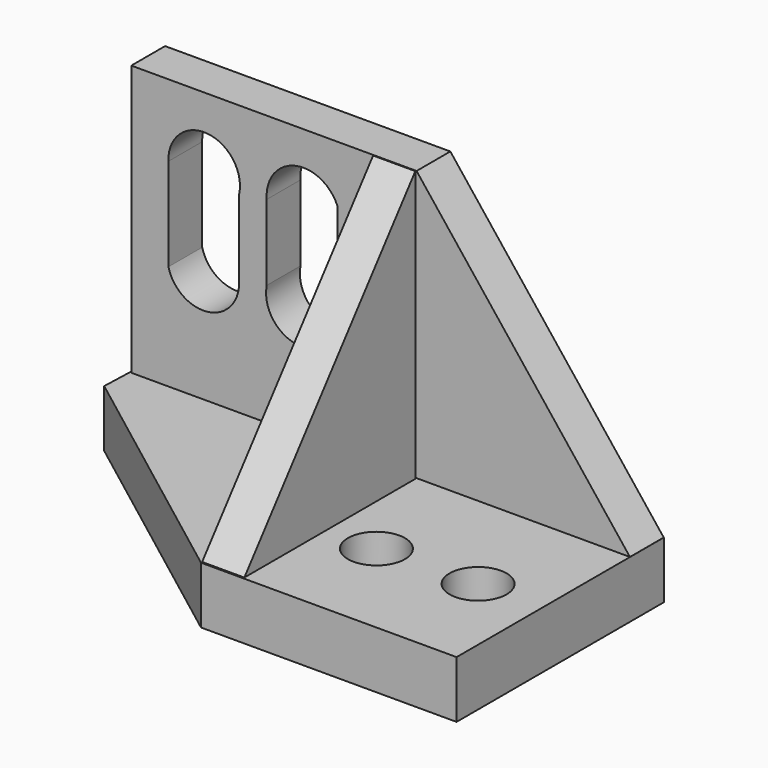
from build123d import *

# Parameters (mm, degrees)
F0_W     = 63.5
F0_H     = 60.198
F1_DEPTH = 9.398
F3_DEPTH = 12.7
F5_DEPTH = 9.398


with BuildPart() as f1:
    # F0 (on Front) → F1 (new body)
    with BuildSketch(Plane.XZ):
        with Locations((-31.75, 30.099)):
            Rectangle(F0_W, F0_H)
        with BuildLine():
            ThreePointArc((-55.2396252751, 44.1290847957), (-46.5901332262, 52.387728278), (-39.4916252751, 42.7632755798))
            Line((-39.4916252751, 42.7632755798), (-39.4916252751, 25.4))
            ThreePointArc((-39.4916252751, 25.4), (-46.5009541347, 17.4653953282), (-55.2396252751, 23.442373583))
            Line((-55.2396252751, 23.442373583), (-55.2396252751, 44.1290847957))
        make_face(mode=Mode.SUBTRACT)
        with BuildLine():
            ThreePointArc((-33.3522260189, 43.7816642225), (-27.1048819761, 52.4199260723), (-17.6042260189, 47.5839761388))
            Line((-17.6042260189, 47.5839761388), (-17.6042260189, 25.4))
            ThreePointArc((-17.6042260189, 25.4), (-26.3222239844, 17.4888395764), (-33.3522260189, 26.9317744576))
            Line((-33.3522260189, 26.9317744576), (-33.3522260189, 43.7816642225))
        make_face(mode=Mode.SUBTRACT)
        Polygon((47.498, 0), (0, 60.198), (0, 0), align=None)
    extrude(amount=F1_DEPTH)

    # F2 (on Top) → F3 (join)
    with BuildSketch(Plane.XY):
        Polygon((47.5135771375, 0), (-63.4844228625, 0), (-64.0543534469, -16.2460061286), (-9.3824228625, -57.658), (47.5135771375, -57.658), align=None)
        with BuildLine():
            ThreePointArc((17.4686820134, -34.4697237222), (4.7694330104, -34.5673817862), (17.4656782032, -34.2744306938))
            ThreePointArc((17.4656782032, -34.2744306938), (17.4679310165, -34.3720656582), (17.4686820134, -34.4697237222))
        make_face(mode=Mode.SUBTRACT)
        with BuildLine():
            ThreePointArc((26.8592325641, -33.9853970117), (33.1085706899, -27.4408549802), (39.5562287539, -33.7901039832))
            ThreePointArc((39.5562287539, -33.7901039832), (33.3038868178, -40.1393529863), (26.8592325641, -33.9853970117))
        make_face(mode=Mode.SUBTRACT)
    extrude(amount=-F3_DEPTH)

    # F4 (on Right) → F5 (join)
    with BuildSketch(Plane.YZ):
        Polygon((-9.7489070876, 0), (-9.7489070876, 60.2996), (-57.3169094876, 0), align=None)
    extrude(amount=-F5_DEPTH)


solid = f1.part
